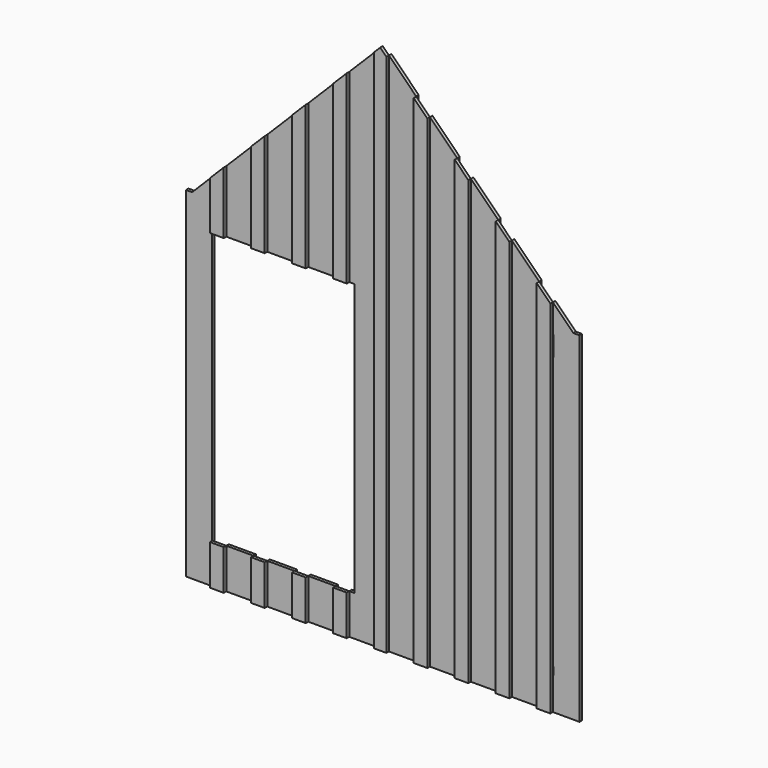
from build123d import *

# Parameters (mm, degrees)
F0_W     = 5
F0_H     = 1990.5023168359
F0_W_2   = 150
F0_H_2   = 90
F1_DEPTH = 23
F0_W_3   = 200
F0_H_3   = 60.0609665441
F0_H_4   = 145
F0_H_5   = 59.43671662
F0_W_4   = 60
F0_W_5   = 40
F0_W_6   = 100
F2_DEPTH = 23
F0_W_7   = 90


with BuildPart() as f1:
    # F0 (on Front) → F1 (new body)
    with BuildSketch(Plane.XZ):
        Polygon((450, 1043.5651211104), (450, -1356.4348788896), (450, -1446.4348788896), (495, -1446.4348788896), (495, 1043.5651211104), align=None)
        Polygon((300, -1211.4348788896), (300, -1356.4348788896), (450, -1356.4348788896), (450, 1043.5651211104), (300, 1043.5651211104), (300, 988.5041545663), (305, 983.5041545663), (305, 838.5041545663), (305, -1151.9981622696), (305, -1211.4348788896), align=None)
        with Locations((302.5, -156.7470038516)):
            Rectangle(F0_W, F0_H)
        Polygon((450, 1043.5651211104), (300, 1193.5651211104), (300, 1043.5651211104), align=None)
        with Locations((375, -1401.4348788896)):
            Rectangle(F0_W_2, F0_H_2)
    extrude(amount=-F1_DEPTH)


with BuildPart() as f1b:
    # F0 (on Front) → F1, piece 2 (new body)
    with BuildSketch(Plane.XZ):
        Polygon((200, 1293.5651211104), (0, 1493.5651211104), (0, 1288.5041545663), (200, 1088.5041545663), align=None)
        Polygon((0, 1288.5041545663), (0, 1043.5651211104), (200, 1043.5651211104), (200, 1088.5041545663), align=None)
        with Locations((100, 1013.5346378384)):
            Rectangle(F0_W_3, F0_H_3)
        with Locations((100, 911.0041545663)):
            Rectangle(F0_W_3, F0_H_4)
        with Locations((100, -156.7470038516)):
            Rectangle(F0_W_3, F0_H)
        with Locations((100, -1181.7165205796)):
            Rectangle(F0_W_3, F0_H_5)
        with Locations((100, -1283.9348788896)):
            Rectangle(F0_W_3, F0_H_4)
        with Locations((100, -1401.4348788896)):
            Rectangle(F0_W_3, F0_H_2)
    extrude(amount=-F1_DEPTH)


with BuildPart() as f1c:
    # F0 (on Front) → F1, piece 3 (new body)
    with BuildSketch(Plane.XZ):
        with Locations((-200, -1401.4348788896)):
            Rectangle(F0_W_3, F0_H_2)
        with Locations((-200, -1283.9348788896)):
            Rectangle(F0_W_3, F0_H_4)
        with Locations((-200, -1181.7165205796)):
            Rectangle(F0_W_3, F0_H_5)
        with Locations((-200, -156.7470038516)):
            Rectangle(F0_W_3, F0_H)
        with Locations((-200, 911.0041545663)):
            Rectangle(F0_W_3, F0_H_4)
        with Locations((-200, 1013.5346378384)):
            Rectangle(F0_W_3, F0_H_3)
        Polygon((-300, 1588.5041545663), (-300, 1043.5651211104), (-100, 1043.5651211104), (-100, 1388.5041545663), align=None)
        Polygon((-100, 1593.5651211104), (-300, 1793.5651211104), (-300, 1588.5041545663), (-100, 1388.5041545663), align=None)
    extrude(amount=-F1_DEPTH)


with BuildPart() as f1d:
    # F0 (on Front) → F1, piece 4 (new body)
    with BuildSketch(Plane.XZ):
        Polygon((-400, 1893.5651211104), (-600, 2093.5651211104), (-600, 1888.5041545663), (-400, 1688.5041545663), align=None)
        Polygon((-600, 1888.5041545663), (-600, 1043.5651211104), (-400, 1043.5651211104), (-400, 1688.5041545663), align=None)
        with Locations((-500, 1013.5346378384)):
            Rectangle(F0_W_3, F0_H_3)
        with Locations((-500, 911.0041545663)):
            Rectangle(F0_W_3, F0_H_4)
        with Locations((-500, -156.7470038516)):
            Rectangle(F0_W_3, F0_H)
        with Locations((-500, -1181.7165205796)):
            Rectangle(F0_W_3, F0_H_5)
        with Locations((-500, -1283.9348788896)):
            Rectangle(F0_W_3, F0_H_4)
        with Locations((-500, -1401.4348788896)):
            Rectangle(F0_W_3, F0_H_2)
    extrude(amount=-F1_DEPTH)


with BuildPart() as f1e:
    # F0 (on Front) → F1, piece 5 (new body)
    with BuildSketch(Plane.XZ):
        with Locations((-800, -1401.4348788896)):
            Rectangle(F0_W_3, F0_H_2)
        with Locations((-800, -1283.9348788896)):
            Rectangle(F0_W_3, F0_H_4)
        with Locations((-800, -1181.7165205796)):
            Rectangle(F0_W_3, F0_H_5)
        with Locations((-800, -156.7470038516)):
            Rectangle(F0_W_3, F0_H)
        with Locations((-800, 911.0041545663)):
            Rectangle(F0_W_3, F0_H_4)
        with Locations((-800, 1013.5346378384)):
            Rectangle(F0_W_3, F0_H_3)
        Polygon((-900, 2188.5041545663), (-900, 1043.5651211104), (-700, 1043.5651211104), (-700, 1988.5041545663), align=None)
        Polygon((-700, 2193.5651211104), (-900, 2393.5651211104), (-900, 2188.5041545663), (-700, 1988.5041545663), align=None)
    extrude(amount=-F1_DEPTH)


with BuildPart() as f1f:
    # F0 (on Front) → F1, piece 6 (new body)
    with BuildSketch(Plane.XZ):
        Polygon((-990, 2393.5651211104), (-1190, 2193.5651211104), (-1190, 1988.5041545663), (-990, 2188.5041545663), align=None)
        Polygon((-1190, 1988.5041545663), (-1190, 1043.5651211104), (-990, 1043.5651211104), (-990, 2188.5041545663), align=None)
        with Locations((-1090, 1013.5346378384)):
            Rectangle(F0_W_3, F0_H_3)
        Polygon((-990, 983.5041545663), (-1190, 983.5041545663), (-1190, 838.5041545663), (-1150, 838.5041545663), (-990, 838.5041545663), align=None)
        Polygon((-990, -1151.9981622696), (-990, 838.5041545663), (-1150, 838.5041545663), (-1150, 793.5041545663), (-1150, -1106.9981622696), (-1150, -1151.9981622696), align=None)
        with Locations((-1090, -1283.9348788896)):
            Rectangle(F0_W_3, F0_H_4)
        Polygon((-1190, -1151.9981622696), (-1190, -1211.4348788896), (-990, -1211.4348788896), (-990, -1151.9981622696), (-1150, -1151.9981622696), align=None)
        with Locations((-1090, -1401.4348788896)):
            Rectangle(F0_W_3, F0_H_2)
    extrude(amount=-F1_DEPTH)


with BuildPart() as f1g:
    # F0 (on Front) → F1, piece 7 (new body)
    with BuildSketch(Plane.XZ):
        with Locations((-1390, -1283.9348788896)):
            Rectangle(F0_W_3, F0_H_4)
        with Locations((-1390, -1181.7165205796)):
            Rectangle(F0_W_3, F0_H_5)
        with Locations((-1390, -1401.4348788896)):
            Rectangle(F0_W_3, F0_H_2)
    extrude(amount=-F1_DEPTH)


with BuildPart() as f1h:
    # F0 (on Front) → F1, piece 8 (new body)
    with BuildSketch(Plane.XZ):
        with Locations((-1690, -1401.4348788896)):
            Rectangle(F0_W_3, F0_H_2)
        with Locations((-1690, -1283.9348788896)):
            Rectangle(F0_W_3, F0_H_4)
        with Locations((-1690, -1181.7165205796)):
            Rectangle(F0_W_3, F0_H_5)
    extrude(amount=-F1_DEPTH)


with BuildPart() as f1i:
    # F0 (on Front) → F1, piece 9 (new body)
    with BuildSketch(Plane.XZ):
        with Locations((-1990, -1401.4348788896)):
            Rectangle(F0_W_3, F0_H_2)
        with Locations((-1990, -1283.9348788896)):
            Rectangle(F0_W_3, F0_H_4)
        with Locations((-1990, -1181.7165205796)):
            Rectangle(F0_W_3, F0_H_5)
    extrude(amount=-F1_DEPTH)


with BuildPart() as f1j:
    # F0 (on Front) → F1, piece 10 (new body)
    with BuildSketch(Plane.XZ):
        with Locations((-2265, -1401.4348788896)):
            Rectangle(F0_W_2, F0_H_2)
        Polygon((-2340, -1356.4348788896), (-2340, 1043.5651211104), (-2385, 1043.5651211104), (-2385, -1446.4348788896), (-2340, -1446.4348788896), align=None)
        Polygon((-2190, 1043.5651211104), (-2340, 1043.5651211104), (-2340, -1356.4348788896), (-2190, -1356.4348788896), (-2190, -1211.4348788896), (-2195, -1211.4348788896), (-2195, -1151.9981622696), (-2195, 838.5041545663), (-2195, 983.5041545663), (-2190, 988.5041545663), align=None)
        Polygon((-2190, 1193.5651211104), (-2340, 1043.5651211104), (-2190, 1043.5651211104), align=None)
    extrude(amount=-F1_DEPTH)


with BuildPart() as f1k:
    # F0 (on Front) → F1, piece 11 (new body)
    with BuildSketch(Plane.XZ):
        Polygon((-1890, 1493.5651211104), (-2090, 1293.5651211104), (-2090, 1088.5041545663), (-1890, 1288.5041545663), align=None)
        Polygon((-2090, 1088.5041545663), (-2090, 1043.5651211104), (-1890, 1043.5651211104), (-1890, 1288.5041545663), align=None)
        with Locations((-1990, 1013.5346378384)):
            Rectangle(F0_W_3, F0_H_3)
        with Locations((-1990, 911.0041545663)):
            Rectangle(F0_W_3, F0_H_4)
    extrude(amount=-F1_DEPTH)


with BuildPart() as f1l:
    # F0 (on Front) → F1, piece 12 (new body)
    with BuildSketch(Plane.XZ):
        Polygon((-1790, 1388.5041545663), (-1790, 1043.5651211104), (-1590, 1043.5651211104), (-1590, 1588.5041545663), align=None)
        Polygon((-1590, 1793.5651211104), (-1790, 1593.5651211104), (-1790, 1388.5041545663), (-1590, 1588.5041545663), align=None)
        with Locations((-1690, 1013.5346378384)):
            Rectangle(F0_W_3, F0_H_3)
        with Locations((-1690, 911.0041545663)):
            Rectangle(F0_W_3, F0_H_4)
    extrude(amount=-F1_DEPTH)


with BuildPart() as f1m:
    # F0 (on Front) → F1, piece 13 (new body)
    with BuildSketch(Plane.XZ):
        Polygon((-1490, 1688.5041545663), (-1490, 1043.5651211104), (-1290, 1043.5651211104), (-1290, 1888.5041545663), align=None)
        Polygon((-1290, 2093.5651211104), (-1490, 1893.5651211104), (-1490, 1688.5041545663), (-1290, 1888.5041545663), align=None)
        with Locations((-1390, 1013.5346378384)):
            Rectangle(F0_W_3, F0_H_3)
        with Locations((-1390, 911.0041545663)):
            Rectangle(F0_W_3, F0_H_4)
    extrude(amount=-F1_DEPTH)


with BuildPart() as f2:
    # F0 (on Front) → F2 (new body)
    with BuildSketch(Plane.XZ):
        Polygon((300, 1193.5651211104), (200, 1293.5651211104), (200, 1088.5041545663), (244.9390334559, 1043.5651211104), (300, 1043.5651211104), align=None)
        Polygon((244.9390334559, 1043.5651211104), (200, 1043.5651211104), (200, 983.5041545663), (300, 983.5041545663), (300, 988.5041545663), align=None)
        Polygon((200, 1088.5041545663), (200, 1043.5651211104), (244.9390334559, 1043.5651211104), align=None)
        Polygon((300, 1043.5651211104), (244.9390334559, 1043.5651211104), (300, 988.5041545663), align=None)
        Polygon((300, 983.5041545663), (200, 983.5041545663), (200, 838.5041545663), (260, 838.5041545663), (300, 838.5041545663), align=None)
        with Locations((230, -156.7470038516)):
            Rectangle(F0_W_4, F0_H)
        with Locations((280, -156.7470038516)):
            Rectangle(F0_W_5, F0_H)
        Polygon((200, -1151.9981622696), (200, -1211.4348788896), (300, -1211.4348788896), (300, -1151.9981622696), (260, -1151.9981622696), align=None)
        with Locations((250, -1283.9348788896)):
            Rectangle(F0_W_6, F0_H_4)
        with Locations((250, -1401.4348788896)):
            Rectangle(F0_W_6, F0_H_2)
    extrude(amount=F2_DEPTH)


with BuildPart() as f2b:
    # F0 (on Front) → F2, piece 2 (new body)
    with BuildSketch(Plane.XZ):
        with Locations((-50, -1401.4348788896)):
            Rectangle(F0_W_6, F0_H_2)
        with Locations((-50, -1283.9348788896)):
            Rectangle(F0_W_6, F0_H_4)
        with Locations((-50, -1181.7165205796)):
            Rectangle(F0_W_6, F0_H_5)
        with Locations((-50, -156.7470038516)):
            Rectangle(F0_W_6, F0_H)
        with Locations((-50, 911.0041545663)):
            Rectangle(F0_W_6, F0_H_4)
        with Locations((-50, 1013.5346378384)):
            Rectangle(F0_W_6, F0_H_3)
        Polygon((-100, 1388.5041545663), (-100, 1043.5651211104), (0, 1043.5651211104), (0, 1288.5041545663), align=None)
        Polygon((0, 1493.5651211104), (-100, 1593.5651211104), (-100, 1388.5041545663), (0, 1288.5041545663), align=None)
    extrude(amount=F2_DEPTH)


with BuildPart() as f2c:
    # F0 (on Front) → F2, piece 3 (new body)
    with BuildSketch(Plane.XZ):
        Polygon((-300, 1793.5651211104), (-400, 1893.5651211104), (-400, 1688.5041545663), (-300, 1588.5041545663), align=None)
        Polygon((-400, 1688.5041545663), (-400, 1043.5651211104), (-300, 1043.5651211104), (-300, 1588.5041545663), align=None)
        with Locations((-350, 1013.5346378384)):
            Rectangle(F0_W_6, F0_H_3)
        with Locations((-350, 911.0041545663)):
            Rectangle(F0_W_6, F0_H_4)
        with Locations((-350, -156.7470038516)):
            Rectangle(F0_W_6, F0_H)
        with Locations((-350, -1181.7165205796)):
            Rectangle(F0_W_6, F0_H_5)
        with Locations((-350, -1283.9348788896)):
            Rectangle(F0_W_6, F0_H_4)
        with Locations((-350, -1401.4348788896)):
            Rectangle(F0_W_6, F0_H_2)
    extrude(amount=F2_DEPTH)


with BuildPart() as f2d:
    # F0 (on Front) → F2, piece 4 (new body)
    with BuildSketch(Plane.XZ):
        with Locations((-650, -1401.4348788896)):
            Rectangle(F0_W_6, F0_H_2)
        with Locations((-650, -1283.9348788896)):
            Rectangle(F0_W_6, F0_H_4)
        with Locations((-650, -1181.7165205796)):
            Rectangle(F0_W_6, F0_H_5)
        with Locations((-650, -156.7470038516)):
            Rectangle(F0_W_6, F0_H)
        Polygon((-700, 1988.5041545663), (-700, 1043.5651211104), (-600, 1043.5651211104), (-600, 1888.5041545663), align=None)
        with Locations((-650, 911.0041545663)):
            Rectangle(F0_W_6, F0_H_4)
        with Locations((-650, 1013.5346378384)):
            Rectangle(F0_W_6, F0_H_3)
        Polygon((-600, 2093.5651211104), (-700, 2193.5651211104), (-700, 1988.5041545663), (-600, 1888.5041545663), align=None)
    extrude(amount=F2_DEPTH)


with BuildPart() as f2e:
    # F0 (on Front) → F2, piece 5 (new body)
    with BuildSketch(Plane.XZ):
        with Locations((-945, -1181.7165205796)):
            Rectangle(F0_W_7, F0_H_5)
        with Locations((-945, -1283.9348788896)):
            Rectangle(F0_W_7, F0_H_4)
        with Locations((-945, -1401.4348788896)):
            Rectangle(F0_W_7, F0_H_2)
        with Locations((-945, -156.7470038516)):
            Rectangle(F0_W_7, F0_H)
        Polygon((-990, 2188.5041545663), (-990, 1043.5651211104), (-900, 1043.5651211104), (-900, 2188.5041545663), (-945, 2233.5041545663), align=None)
        with Locations((-945, 911.0041545663)):
            Rectangle(F0_W_7, F0_H_4)
        with Locations((-945, 1013.5346378384)):
            Rectangle(F0_W_7, F0_H_3)
        Polygon((-945, 2438.5651211104), (-990, 2393.5651211104), (-990, 2188.5041545663), (-945, 2233.5041545663), (-900, 2188.5041545663), (-900, 2393.5651211104), align=None)
    extrude(amount=F2_DEPTH)


with BuildPart() as f2f:
    # F0 (on Front) → F2, piece 6 (new body)
    with BuildSketch(Plane.XZ):
        with Locations((-1240, -1181.7165205796)):
            Rectangle(F0_W_6, F0_H_5)
        with Locations((-1240, -1283.9348788896)):
            Rectangle(F0_W_6, F0_H_4)
        with Locations((-1240, -1401.4348788896)):
            Rectangle(F0_W_6, F0_H_2)
    extrude(amount=F2_DEPTH)


with BuildPart() as f2g:
    # F0 (on Front) → F2, piece 7 (new body)
    with BuildSketch(Plane.XZ):
        with Locations((-1540, -1401.4348788896)):
            Rectangle(F0_W_6, F0_H_2)
        with Locations((-1540, -1283.9348788896)):
            Rectangle(F0_W_6, F0_H_4)
        with Locations((-1540, -1181.7165205796)):
            Rectangle(F0_W_6, F0_H_5)
    extrude(amount=F2_DEPTH)


with BuildPart() as f2h:
    # F0 (on Front) → F2, piece 8 (new body)
    with BuildSketch(Plane.XZ):
        with Locations((-1840, -1181.7165205796)):
            Rectangle(F0_W_6, F0_H_5)
        with Locations((-1840, -1283.9348788896)):
            Rectangle(F0_W_6, F0_H_4)
        with Locations((-1840, -1401.4348788896)):
            Rectangle(F0_W_6, F0_H_2)
    extrude(amount=F2_DEPTH)


with BuildPart() as f2i:
    # F0 (on Front) → F2, piece 9 (new body)
    with BuildSketch(Plane.XZ):
        with Locations((-2140, -1401.4348788896)):
            Rectangle(F0_W_6, F0_H_2)
        with Locations((-2140, -1283.9348788896)):
            Rectangle(F0_W_6, F0_H_4)
        Polygon((-2190, -1151.9981622696), (-2190, -1211.4348788896), (-2090, -1211.4348788896), (-2090, -1151.9981622696), (-2150, -1151.9981622696), align=None)
    extrude(amount=F2_DEPTH)


with BuildPart() as f2j:
    # F0 (on Front) → F2, piece 10 (new body)
    with BuildSketch(Plane.XZ):
        Polygon((-1290, 1888.5041545663), (-1290, 1043.5651211104), (-1190, 1043.5651211104), (-1190, 1988.5041545663), align=None)
        Polygon((-1190, 2193.5651211104), (-1290, 2093.5651211104), (-1290, 1888.5041545663), (-1190, 1988.5041545663), align=None)
        with Locations((-1240, 1013.5346378384)):
            Rectangle(F0_W_6, F0_H_3)
        with Locations((-1240, 911.0041545663)):
            Rectangle(F0_W_6, F0_H_4)
    extrude(amount=F2_DEPTH)


with BuildPart() as f2k:
    # F0 (on Front) → F2, piece 11 (new body)
    with BuildSketch(Plane.XZ):
        with Locations((-1540, 911.0041545663)):
            Rectangle(F0_W_6, F0_H_4)
        with Locations((-1540, 1013.5346378384)):
            Rectangle(F0_W_6, F0_H_3)
        Polygon((-1590, 1588.5041545663), (-1590, 1043.5651211104), (-1490, 1043.5651211104), (-1490, 1688.5041545663), align=None)
        Polygon((-1490, 1893.5651211104), (-1590, 1793.5651211104), (-1590, 1588.5041545663), (-1490, 1688.5041545663), align=None)
    extrude(amount=F2_DEPTH)


with BuildPart() as f2l:
    # F0 (on Front) → F2, piece 12 (new body)
    with BuildSketch(Plane.XZ):
        Polygon((-1790, 1593.5651211104), (-1890, 1493.5651211104), (-1890, 1288.5041545663), (-1790, 1388.5041545663), align=None)
        Polygon((-1890, 1288.5041545663), (-1890, 1043.5651211104), (-1790, 1043.5651211104), (-1790, 1388.5041545663), align=None)
        with Locations((-1840, 1013.5346378384)):
            Rectangle(F0_W_6, F0_H_3)
        with Locations((-1840, 911.0041545663)):
            Rectangle(F0_W_6, F0_H_4)
    extrude(amount=F2_DEPTH)


with BuildPart() as f2m:
    # F0 (on Front) → F2, piece 13 (new body)
    with BuildSketch(Plane.XZ):
        Polygon((-2090, 1043.5651211104), (-2134.9390334559, 1043.5651211104), (-2190, 988.5041545663), (-2190, 983.5041545663), (-2090, 983.5041545663), align=None)
        Polygon((-2190, 1193.5651211104), (-2190, 1043.5651211104), (-2134.9390334559, 1043.5651211104), (-2090, 1088.5041545663), (-2090, 1293.5651211104), align=None)
        Polygon((-2134.9390334559, 1043.5651211104), (-2190, 1043.5651211104), (-2190, 988.5041545663), align=None)
        Polygon((-2090, 1088.5041545663), (-2134.9390334559, 1043.5651211104), (-2090, 1043.5651211104), align=None)
        Polygon((-2090, 983.5041545663), (-2190, 983.5041545663), (-2190, 838.5041545663), (-2150, 838.5041545663), (-2090, 838.5041545663), align=None)
    extrude(amount=F2_DEPTH)


solid = Compound([f1.part, f1b.part, f1c.part, f1d.part, f1e.part, f1f.part, f1g.part, f1h.part, f1i.part, f1j.part, f1k.part, f1l.part, f1m.part, f2.part, f2b.part, f2c.part, f2d.part, f2e.part, f2f.part, f2g.part, f2h.part, f2i.part, f2j.part, f2k.part, f2l.part, f2m.part])
